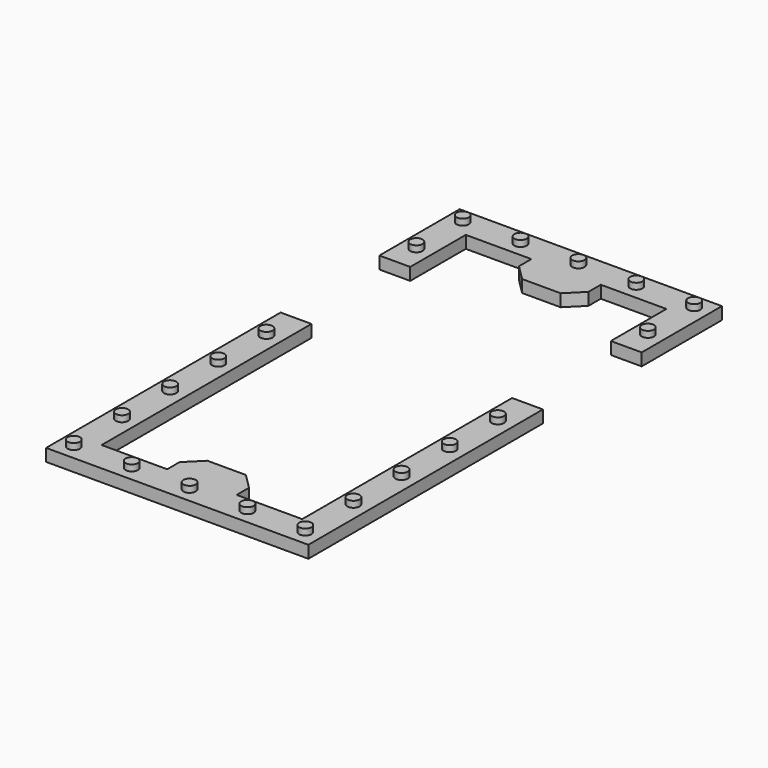
from build123d import *

# Parameters (mm, degrees)
F1_DEPTH  = 0.8
F2_R      = 0.4
F3_DEPTH  = 0.4
F4_SIZE   = 1
F4_2_SIZE = 1


with BuildPart() as f1:
    # F0 (on Top) → F1 (new body)
    with BuildSketch(Plane.XY):
        Polygon((8.5, 10.5), (-8.5, 10.5), (-8.5, 4), (-6.5, 4), (-6.5, 8.5), (-2.25, 8.5), (-2.25, 6.5), (2.25, 6.5), (2.25, 8.5), (6.5, 8.5), (6.5, 4), (8.5, 4), align=None)
    extrude(amount=F1_DEPTH)

    # F2 (on face) → F3 (join)
    with BuildSketch(Plane.XY.offset(0.8)):
        with Locations((-7.5, 9.5)):
            Circle(F2_R)
        with Locations((-3.75, 9.5)):
            Circle(F2_R)
        with Locations((0, 9.5)):
            Circle(F2_R)
        with Locations((3.75, 9.5)):
            Circle(F2_R)
        with Locations((7.5, 9.5)):
            Circle(F2_R)
        with Locations((-7.5, 5.75)):
            Circle(F2_R)
        with Locations((7.5, 5.75)):
            Circle(F2_R)
    extrude(amount=F3_DEPTH)

    # F4
    f4_edges = [f1.edges().sort_by_distance(p)[0] for p in [
        (-2.25, 6.5, 0.4),
        (2.25, 6.5, 0.4),
    ]]
    chamfer(f4_edges, length=F4_SIZE)


with BuildPart() as f1b:
    # F0 (on Top) → F1, piece 2 (new body)
    with BuildSketch(Plane.XY):
        Polygon((-8.5, -4), (-8.5, -23), (8.5, -23), (8.5, -4), (6.5, -4), (6.5, -21), (2.25, -21), (2.25, -19), (-2.25, -19), (-2.25, -21), (-6.5, -21), (-6.5, -4), align=None)
    extrude(amount=F1_DEPTH)

    # F2 (on face) → F3, piece 2 (join)
    with BuildSketch(Plane.XY.offset(0.8)):
        with Locations((0, -22)):
            Circle(F2_R)
        with Locations((3.75, -22)):
            Circle(F2_R)
        with Locations((7.5, -22)):
            Circle(F2_R)
        with Locations((-3.75, -22)):
            Circle(F2_R)
        with Locations((-7.5, -22)):
            Circle(F2_R)
        with Locations((-7.5, -18.1)):
            Circle(F2_R)
        with Locations((-7.5, -14.2)):
            Circle(F2_R)
        with Locations((-7.5, -10.3)):
            Circle(F2_R)
        with Locations((-7.5, -6.4)):
            Circle(F2_R)
        with Locations((7.5, -18.1)):
            Circle(F2_R)
        with Locations((7.5, -14.2)):
            Circle(F2_R)
        with Locations((7.5, -10.3)):
            Circle(F2_R)
        with Locations((7.5, -6.4)):
            Circle(F2_R)
    extrude(amount=F3_DEPTH)

    # F4#2
    f4_2_edges = [f1b.edges().sort_by_distance(p)[0] for p in [
        (2.25, -19, 0.4),
        (-2.25, -19, 0.4),
    ]]
    chamfer(f4_2_edges, length=F4_2_SIZE)


solid = Compound([f1.part, f1b.part])
